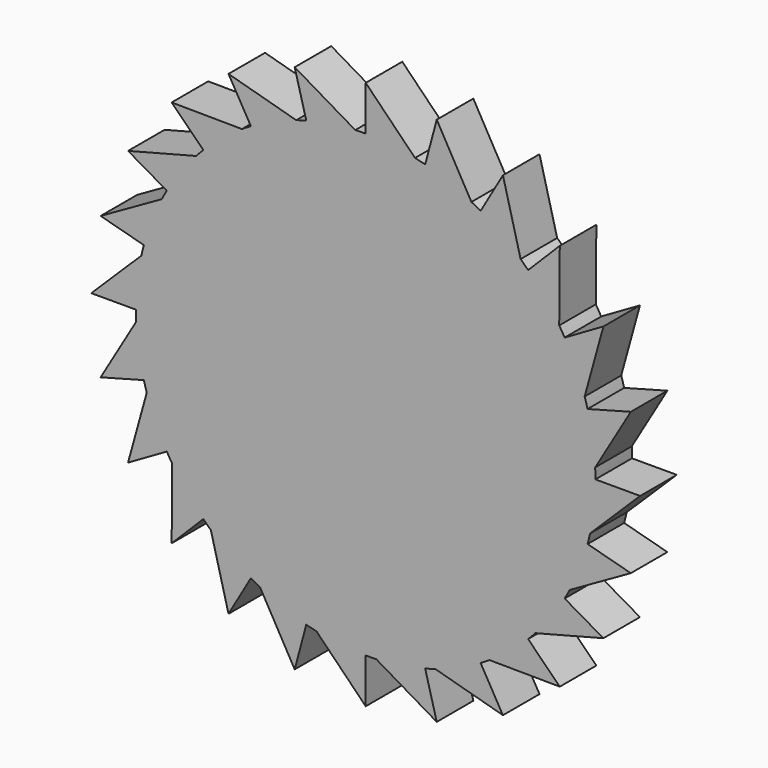
from build123d import *

# Parameters (mm, degrees)
F1_DEPTH = 12.7


with BuildPart() as f1:
    # F0 (on Front) → F1 (new body)
    with BuildSketch(Plane.XZ):
        with BuildLine():
            ThreePointArc((13.700902, 62.328232), (6.890739, 63.44321), (0, 63.816324))
            ThreePointArc((0, 63.816324), (-1.449213, 63.799867), (-2.897679, 63.750503))
            ThreePointArc((-2.897679, 63.750503), (-9.764368, 63.06489), (-16.51688, 61.641836))
            ThreePointArc((-16.51688, 61.641836), (-17.912453, 61.250855), (-19.298787, 60.828283))
            ThreePointArc((-19.298787, 60.828283), (-25.75405, 58.388801), (-31.908162, 55.266558))
            ThreePointArc((-31.908162, 55.266558), (-33.154989, 54.527699), (-34.384715, 53.760716))
            ThreePointArc((-34.384715, 53.760716), (-39.988636, 49.733612), (-45.124956, 45.124956))
            ThreePointArc((-45.124956, 45.124956), (-46.138067, 44.08857), (-47.127381, 43.029445))
            ThreePointArc((-47.127381, 43.029445), (-51.498062, 37.68916), (-55.266558, 31.908162))
            ThreePointArc((-55.266558, 31.908162), (-55.976912, 30.644878), (-56.658395, 29.365788))
            ThreePointArc((-56.658395, 29.365788), (-59.497981, 23.076254), (-61.641836, 16.51688))
            ThreePointArc((-61.641836, 16.51688), (-62.001023, 15.112788), (-62.328232, 13.700902))
            ThreePointArc((-62.328232, 13.700902), (-63.44321, 6.890739), (-63.816324, 0))
            ThreePointArc((-63.816324, 0), (-63.799867, -1.449213), (-63.750503, -2.897679))
            ThreePointArc((-63.750503, -2.897679), (-63.06489, -9.764368), (-61.641836, -16.51688))
            ThreePointArc((-61.641836, -16.51688), (-61.250855, -17.912453), (-60.828283, -19.298787))
            ThreePointArc((-60.828283, -19.298787), (-58.388801, -25.75405), (-55.266558, -31.908162))
            ThreePointArc((-55.266558, -31.908162), (-54.527699, -33.154989), (-53.760716, -34.384715))
            ThreePointArc((-53.760716, -34.384715), (-49.733612, -39.988636), (-45.124956, -45.124956))
            ThreePointArc((-45.124956, -45.124956), (-44.08857, -46.138067), (-43.029445, -47.127381))
            ThreePointArc((-43.029445, -47.127381), (-37.68916, -51.498062), (-31.908162, -55.266558))
            ThreePointArc((-31.908162, -55.266558), (-30.644878, -55.976912), (-29.365788, -56.658395))
            ThreePointArc((-29.365788, -56.658395), (-23.076254, -59.497981), (-16.51688, -61.641836))
            ThreePointArc((-16.51688, -61.641836), (-15.112788, -62.001023), (-13.700902, -62.328232))
            ThreePointArc((-13.700902, -62.328232), (-6.890739, -63.44321), (0, -63.816324))
            ThreePointArc((0, -63.816324), (1.449213, -63.799867), (2.897679, -63.750503))
            ThreePointArc((2.897679, -63.750503), (9.764368, -63.06489), (16.51688, -61.641836))
            ThreePointArc((16.51688, -61.641836), (17.912453, -61.250855), (19.298787, -60.828283))
            ThreePointArc((19.298787, -60.828283), (25.75405, -58.388801), (31.908162, -55.266558))
            ThreePointArc((31.908162, -55.266558), (33.154989, -54.527699), (34.384715, -53.760716))
            ThreePointArc((34.384715, -53.760716), (39.988636, -49.733612), (45.124956, -45.124956))
            ThreePointArc((45.124956, -45.124956), (46.138067, -44.08857), (47.127381, -43.029445))
            ThreePointArc((47.127381, -43.029445), (51.498062, -37.68916), (55.266558, -31.908162))
            ThreePointArc((55.266558, -31.908162), (55.976912, -30.644878), (56.658395, -29.365788))
            ThreePointArc((56.658395, -29.365788), (59.497981, -23.076254), (61.641836, -16.51688))
            ThreePointArc((61.641836, -16.51688), (62.001023, -15.112788), (62.328232, -13.700902))
            ThreePointArc((62.328232, -13.700902), (63.44321, -6.890739), (63.816324, 0))
            ThreePointArc((63.816324, 0), (63.799867, 1.449213), (63.750503, 2.897679))
            ThreePointArc((63.750503, 2.897679), (63.06489, 9.764368), (61.641836, 16.51688))
            ThreePointArc((61.641836, 16.51688), (61.250855, 17.912453), (60.828283, 19.298787))
            ThreePointArc((60.828283, 19.298787), (58.388801, 25.75405), (55.266558, 31.908162))
            ThreePointArc((55.266558, 31.908162), (54.527699, 33.154989), (53.760716, 34.384715))
            ThreePointArc((53.760716, 34.384715), (49.733612, 39.988636), (45.124956, 45.124956))
            ThreePointArc((45.124956, 45.124956), (44.08857, 46.138067), (43.029445, 47.127381))
            ThreePointArc((43.029445, 47.127381), (37.68916, 51.498062), (31.908162, 55.266558))
            ThreePointArc((31.908162, 55.266558), (30.644878, 55.976912), (29.365788, 56.658395))
            ThreePointArc((29.365788, 56.658395), (23.076254, 59.497981), (16.51688, 61.641836))
            ThreePointArc((16.51688, 61.641836), (15.112788, 62.001023), (13.700902, 62.328232))
        make_face()
        with BuildLine():
            ThreePointArc((-45.124956, 45.124956), (-39.988636, 49.733612), (-34.384715, 53.760716))
            Line((-34.384715, 53.760716), (-53.916988, 53.916988))
            Line((-53.916988, 53.916988), (-45.124956, 45.124956))
        make_face()
        with BuildLine():
            ThreePointArc((-31.908162, 55.266558), (-25.75405, 58.388801), (-19.298787, 60.828283))
            Line((-19.298787, 60.828283), (-38.125068, 66.034555))
            Line((-38.125068, 66.034555), (-31.908162, 55.266558))
        make_face()
        with BuildLine():
            ThreePointArc((-16.51688, 61.641836), (-9.764368, 63.06489), (-2.897679, 63.750503))
            Line((-2.897679, 63.750503), (-19.734987, 73.651976))
            Line((-19.734987, 73.651976), (-16.51688, 61.641836))
        make_face()
        with BuildLine():
            Line((0, 76.250136), (0, 63.816324))
            ThreePointArc((0, 63.816324), (6.890739, 63.44321), (13.700902, 62.328232))
            Line((13.700902, 62.328232), (0, 76.250136))
        make_face()
        with BuildLine():
            Line((19.734987, 73.651976), (16.51688, 61.641836))
            ThreePointArc((16.51688, 61.641836), (23.076254, 59.497981), (29.365788, 56.658395))
            Line((29.365788, 56.658395), (19.734987, 73.651976))
        make_face()
        with BuildLine():
            Line((38.125068, 66.034555), (31.908162, 55.266558))
            ThreePointArc((31.908162, 55.266558), (37.68916, 51.498062), (43.029445, 47.127381))
            Line((43.029445, 47.127381), (38.125068, 66.034555))
        make_face()
        with BuildLine():
            Line((53.916988, 53.916988), (45.124956, 45.124956))
            ThreePointArc((45.124956, 45.124956), (49.733612, 39.988636), (53.760716, 34.384715))
            Line((53.760716, 34.384715), (53.916988, 53.916988))
        make_face()
        with BuildLine():
            Line((66.034555, 38.125068), (55.266558, 31.908162))
            ThreePointArc((55.266558, 31.908162), (58.388801, 25.75405), (60.828283, 19.298787))
            Line((60.828283, 19.298787), (66.034555, 38.125068))
        make_face()
        with BuildLine():
            Line((73.651976, 19.734987), (61.641836, 16.51688))
            ThreePointArc((61.641836, 16.51688), (63.06489, 9.764368), (63.750503, 2.897679))
            Line((63.750503, 2.897679), (73.651976, 19.734987))
        make_face()
        with BuildLine():
            Line((76.250136, 0), (63.816324, 0))
            ThreePointArc((63.816324, 0), (63.44321, -6.890739), (62.328232, -13.700902))
            Line((62.328232, -13.700902), (76.250136, 0))
        make_face()
        with BuildLine():
            Line((73.651976, -19.734987), (61.641836, -16.51688))
            ThreePointArc((61.641836, -16.51688), (59.497981, -23.076254), (56.658395, -29.365788))
            Line((56.658395, -29.365788), (73.651976, -19.734987))
        make_face()
        with BuildLine():
            Line((66.034555, -38.125068), (55.266558, -31.908162))
            ThreePointArc((55.266558, -31.908162), (51.498062, -37.68916), (47.127381, -43.029445))
            Line((47.127381, -43.029445), (66.034555, -38.125068))
        make_face()
        with BuildLine():
            Line((53.916988, -53.916988), (45.124956, -45.124956))
            ThreePointArc((45.124956, -45.124956), (39.988636, -49.733612), (34.384715, -53.760716))
            Line((34.384715, -53.760716), (53.916988, -53.916988))
        make_face()
        with BuildLine():
            Line((38.125068, -66.034555), (31.908162, -55.266558))
            ThreePointArc((31.908162, -55.266558), (25.75405, -58.388801), (19.298787, -60.828283))
            Line((19.298787, -60.828283), (38.125068, -66.034555))
        make_face()
        with BuildLine():
            Line((19.734987, -73.651976), (16.51688, -61.641836))
            ThreePointArc((16.51688, -61.641836), (9.764368, -63.06489), (2.897679, -63.750503))
            Line((2.897679, -63.750503), (19.734987, -73.651976))
        make_face()
        with BuildLine():
            ThreePointArc((0, -63.816324), (-6.890739, -63.44321), (-13.700902, -62.328232))
            Line((-13.700902, -62.328232), (0, -76.250136))
            Line((0, -76.250136), (0, -63.816324))
        make_face()
        with BuildLine():
            ThreePointArc((-16.51688, -61.641836), (-23.076254, -59.497981), (-29.365788, -56.658395))
            Line((-29.365788, -56.658395), (-19.734987, -73.651976))
            Line((-19.734987, -73.651976), (-16.51688, -61.641836))
        make_face()
        with BuildLine():
            ThreePointArc((-31.908162, -55.266558), (-37.68916, -51.498062), (-43.029445, -47.127381))
            Line((-43.029445, -47.127381), (-38.125068, -66.034555))
            Line((-38.125068, -66.034555), (-31.908162, -55.266558))
        make_face()
        with BuildLine():
            ThreePointArc((-55.266558, -31.908162), (-58.388801, -25.75405), (-60.828283, -19.298787))
            Line((-60.828283, -19.298787), (-66.034555, -38.125068))
            Line((-66.034555, -38.125068), (-55.266558, -31.908162))
        make_face()
        with BuildLine():
            ThreePointArc((-61.641836, -16.51688), (-63.06489, -9.764368), (-63.750503, -2.897679))
            Line((-63.750503, -2.897679), (-73.651976, -19.734987))
            Line((-73.651976, -19.734987), (-61.641836, -16.51688))
        make_face()
        with BuildLine():
            ThreePointArc((-63.816324, 0), (-63.44321, 6.890739), (-62.328232, 13.700902))
            Line((-62.328232, 13.700902), (-76.250136, 0))
            Line((-76.250136, 0), (-63.816324, 0))
        make_face()
        with BuildLine():
            ThreePointArc((-61.641836, 16.51688), (-59.497981, 23.076254), (-56.658395, 29.365788))
            Line((-56.658395, 29.365788), (-73.651976, 19.734987))
            Line((-73.651976, 19.734987), (-61.641836, 16.51688))
        make_face()
        with BuildLine():
            ThreePointArc((-55.266558, 31.908162), (-51.498062, 37.68916), (-47.127381, 43.029445))
            Line((-47.127381, 43.029445), (-66.034555, 38.125068))
            Line((-66.034555, 38.125068), (-55.266558, 31.908162))
        make_face()
        with BuildLine():
            ThreePointArc((-45.124956, -45.124956), (-49.733612, -39.988636), (-53.760716, -34.384715))
            Line((-53.760716, -34.384715), (-53.916988, -53.916988))
            Line((-53.916988, -53.916988), (-45.124956, -45.124956))
        make_face()
    extrude(amount=F1_DEPTH)


solid = f1.part
